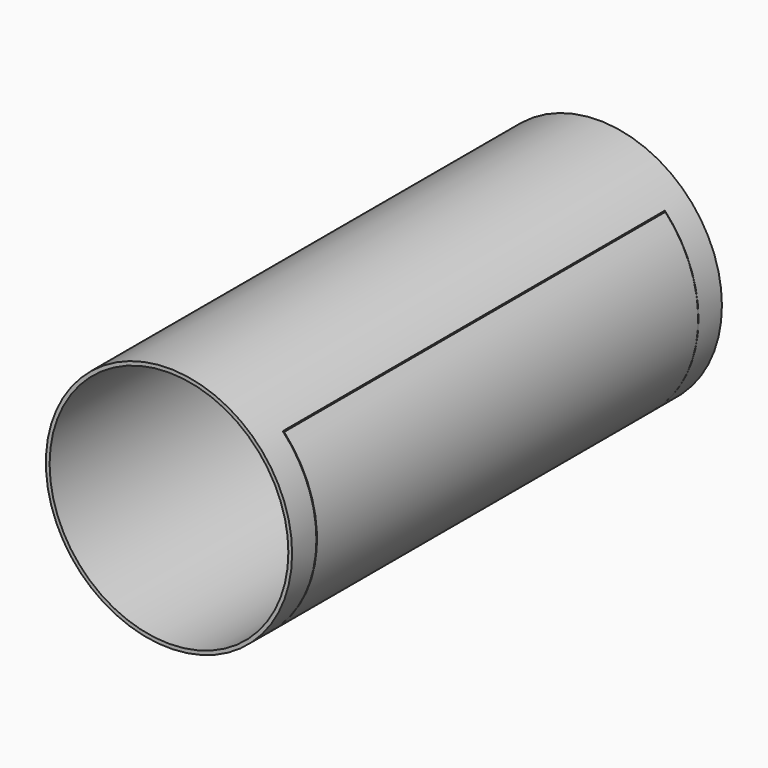
from build123d import *

# Parameters (mm, degrees)
F0_R     = 209.55
F1_DEPTH = 914.4
F2_T     = -6.35
F3_W     = 812.824402
F3_H     = 307.688267
F3_W_2   = 811.00725
F3_H_2   = 305.830211
F4_DEPTH = 446.98978


with BuildPart() as f1:
    # F0 (on Front) → F1 (new body)
    with BuildSketch(Plane.XZ):
        Circle(F0_R)
    extrude(amount=F1_DEPTH)

    # F2
    f2_openings = [f1.faces().sort_by_distance(p)[0] for p in [
        (0, -914.4, 0),
        (0, 0, 0),
    ]]
    offset(amount=F2_T, openings=f2_openings)

    # F3 (on Right) → F4 (cut)
    with BuildSketch(Plane.YZ):
        with Locations((-456.282301, -9.937719)):
            Rectangle(F3_W, F3_H)
        with Locations((-455.882436, -10.392546)):
            Rectangle(F3_W_2, F3_H_2, mode=Mode.SUBTRACT)
    extrude(amount=F4_DEPTH, mode=Mode.SUBTRACT)


solid = f1.part
